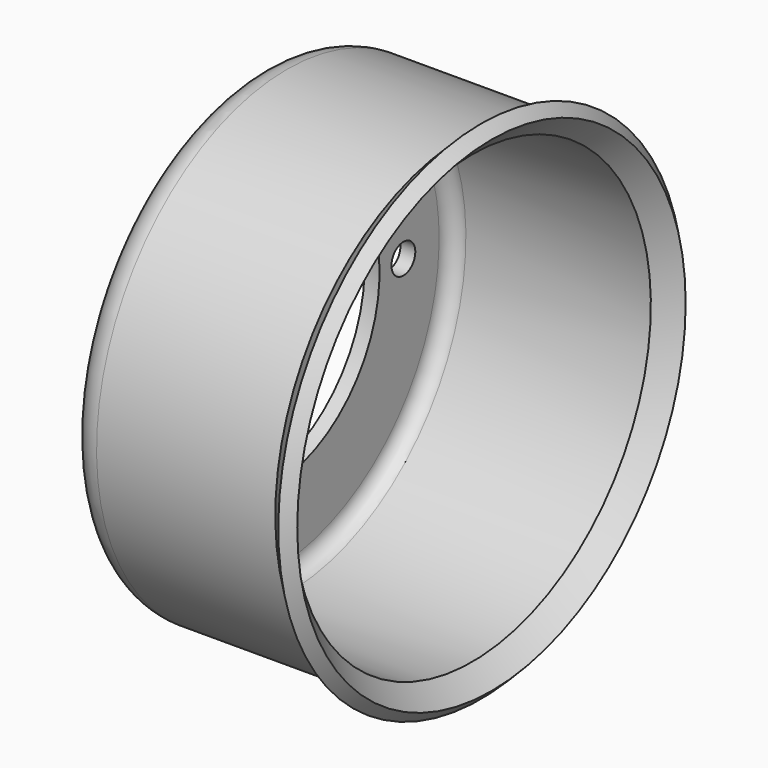
from build123d import *

# Parameters (mm, degrees)
F2_R     = 3.175
F2_R_2   = 4.7625
F3_DEPTH = 3.175


with BuildPart() as f1:
    # F0 (on Front) → F1 (revolve)
    with BuildSketch(Plane.XZ):
        with BuildLine():
            Line((0, 28.575), (0, 44.45))
            ThreePointArc((0, 44.45), (0.929936, 46.695064), (3.175, 47.625))
            Line((3.175, 47.625), (42.590128, 47.625))
            Line((42.590128, 47.625), (46.712325, 51.747197))
            Line((46.712325, 51.747197), (44.467261, 53.992261))
            Line((44.467261, 53.992261), (41.275, 50.8))
            Line((41.275, 50.8), (3.175, 50.8))
            ThreePointArc((3.175, 50.8), (-1.315128, 48.940128), (-3.175, 44.45))
            Line((-3.175, 44.45), (-3.175, 28.575))
            Line((-3.175, 28.575), (0, 28.575))
        make_face()
    revolve(axis=Axis((-2.851337, 0, 0), (-1, 0, 0)))

    # F2 (on Right) → F3 (cut, symmetric)
    with BuildSketch(Plane.YZ):
        with Locations((0, 34.925)):
            Circle(F2_R)
        with Locations((-34.925, 0)):
            Circle(F2_R)
        with Locations((0, -34.925)):
            Circle(F2_R)
        with Locations((34.925, 0)):
            Circle(F2_R)
        with Locations((-20.207051, 20.207051)):
            Circle(F2_R_2)
    extrude(amount=F3_DEPTH, both=True, mode=Mode.SUBTRACT)


solid = f1.part
